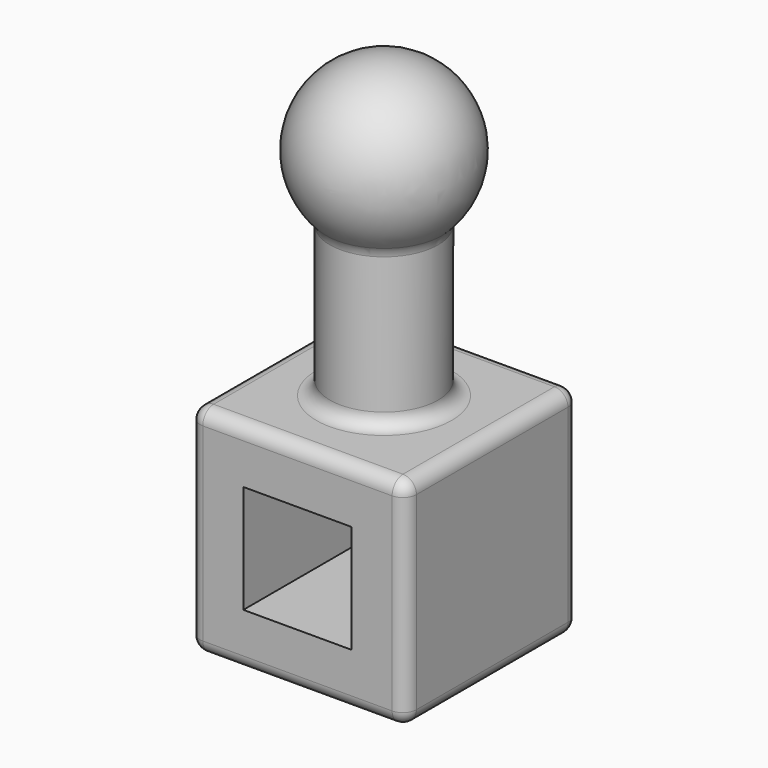
from build123d import *

# Parameters (mm, degrees)
F0_W     = 101.6
F0_H     = 101.6
F1_DEPTH = 101.6
F2_R     = 25.4
F3_DEPTH = 101.6
F6_W     = 50.8
F6_H     = 50.8
F7_DEPTH = 101.6
F8_R     = 6.35
F9_R     = 6.35


with BuildPart() as f1:
    # F0 (on Top) → F1 (new body)
    with BuildSketch(Plane.XY):
        Rectangle(F0_W, F0_H)
    extrude(amount=F1_DEPTH)

    # F2 (on face) → F3 (join)
    with BuildSketch(Plane.XY.offset(101.6)):
        Circle(F2_R)
    extrude(amount=F3_DEPTH)

    # F4 (on face) → F5 (revolve)
    with BuildSketch(Plane.XY.offset(203.2)):
        with BuildLine():
            Line((0, 25.4), (0, -25.4))
            ThreePointArc((0, -25.4), (17.9605122421, -17.9605122421), (25.4, 0))
            ThreePointArc((25.4, 0), (17.9605122421, 17.9605122421), (0, 25.4))
        make_face()
        with BuildLine():
            Line((0, -25.4), (0, -38.1))
            ThreePointArc((0, -38.1), (38.1, 0), (0, 38.1))
            Line((0, 38.1), (0, 25.4))
            ThreePointArc((0, 25.4), (17.9605122421, 17.9605122421), (25.4, 0))
            ThreePointArc((25.4, 0), (17.9605122421, -17.9605122421), (0, -25.4))
        make_face()
    revolve(axis=Axis((0, 0, 203.2), (0, -1, 0)))

    # F6 (on face) → F7 (cut)
    with BuildSketch(Plane.XZ.offset(50.8)):
        with Locations((0, 50.8)):
            Rectangle(F6_W, F6_H)
    extrude(amount=-F7_DEPTH, mode=Mode.SUBTRACT)

    # F8
    f8_edges = [f1.edges().sort_by_distance(p)[0] for p in [
        (0, 50.8, 101.6),
        (-50.8, 0, 101.6),
        (0, -50.8, 101.6),
        (50.8, 0, 101.6),
        (-25.4, 0, 101.6),
        (-50.8, -50.8, 50.8),
        (-50.8, 50.8, 50.8),
        (-50.8, 0, 0),
        (0, -50.8, 0),
        (50.8, -50.8, 50.8),
        (50.8, 50.8, 50.8),
        (0, 50.8, 0),
        (50.8, 0, 0),
    ]]
    fillet(f8_edges, radius=F8_R)

    # F9
    f9_edges = [f1.edges().sort_by_distance(p)[0] for p in [
        (-25.4, 0, 174.801937),
    ]]
    fillet(f9_edges, radius=F9_R)


solid = f1.part
